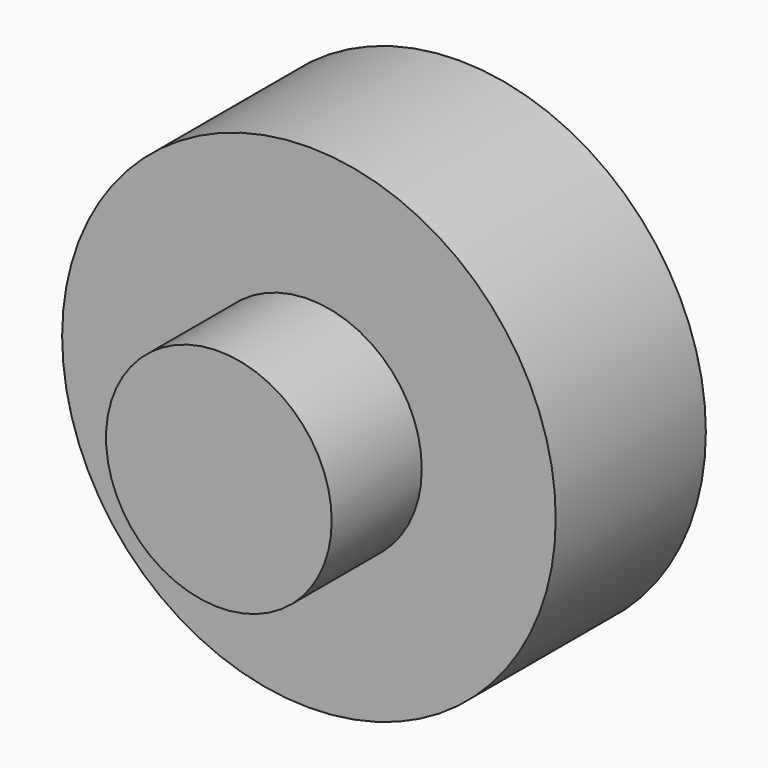
from build123d import *

# Parameters (mm, degrees)
F0_R     = 32.880177
F2_DEPTH = 25
F1_R     = 23.131498
F3_DEPTH = 15
F4_R     = 15.032714
F5_DEPTH = 15


with BuildPart() as f2:
    # F0 (on Front) → F2 (new body)
    with BuildSketch(Plane.XZ):
        Circle(F0_R)
    extrude(amount=F2_DEPTH)

    # F1 (on Front) → F3 (join)
    with BuildSketch(Plane.XZ):
        Circle(F1_R)
    extrude(amount=F3_DEPTH)

    # F4 (on face) → F5 (join)
    with BuildSketch(Plane.XZ.offset(25)):
        Circle(F4_R)
    extrude(amount=F5_DEPTH)


solid = f2.part
